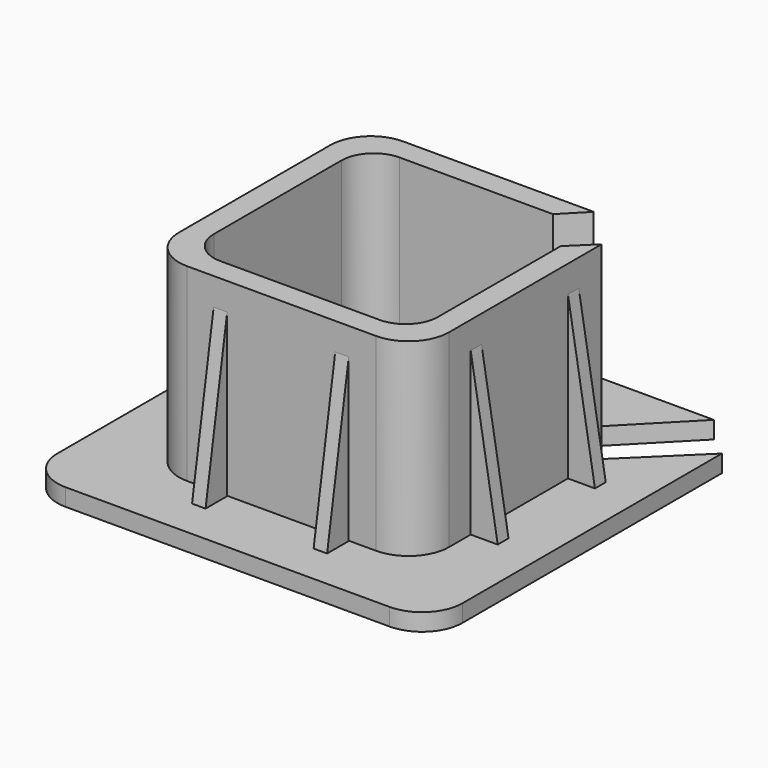
from build123d import *

# Parameters (mm, degrees)
F1_DEPTH       = 1.6256
F3_DEPTH       = 17.78
F5_DEPTH       = 17.78
F6_W           = 2.54
F6_H           = 1.27
F6_W_2         = 1.27
F6_H_2         = 2.54
F7_DEPTH       = 15.24
F9_DEPTH       = 25.401
F11_DEPTH      = 25.401
F13_DEPTH      = 1.6266
F13_DEPTH_BACK = 17.781


with BuildPart() as f1:
    # F0 (on Top) → F1 (new body)
    with BuildSketch(Plane.XY):
        with BuildLine():
            Line((-15.24, -19.05), (15.24, -19.05))
            ThreePointArc((15.24, -19.05), (17.9340768363, -17.9340768363), (19.05, -15.24))
            Line((19.05, -15.24), (19.05, 15.24))
            ThreePointArc((19.05, 15.24), (17.9340768363, 17.9340768363), (15.24, 19.05))
            Line((15.24, 19.05), (-15.24, 19.05))
            ThreePointArc((-15.24, 19.05), (-17.9340768363, 17.9340768363), (-19.05, 15.24))
            Line((-19.05, 15.24), (-19.05, -15.24))
            ThreePointArc((-19.05, -15.24), (-17.9340768363, -17.9340768363), (-15.24, -19.05))
        make_face()
    extrude(amount=F1_DEPTH)

    # F2 (on face) → F3 (join)
    with BuildSketch(Plane.XY.offset(1.6256)):
        with BuildLine():
            Line((-8.89, -12.7), (8.89, -12.7))
            ThreePointArc((8.89, -12.7), (11.5840768363, -11.5840768363), (12.7, -8.89))
            Line((12.7, -8.89), (12.7, 8.89))
            ThreePointArc((12.7, 8.89), (11.5840768363, 11.5840768363), (8.89, 12.7))
            Line((8.89, 12.7), (-8.89, 12.7))
            ThreePointArc((-8.89, 12.7), (-11.5840768363, 11.5840768363), (-12.7, 8.89))
            Line((-12.7, 8.89), (-12.7, -8.89))
            ThreePointArc((-12.7, -8.89), (-11.5840768363, -11.5840768363), (-8.89, -12.7))
        make_face()
    extrude(amount=F3_DEPTH)

    # F4 (on face) → F5 (cut, through all)
    with BuildSketch(Plane.XY.offset(19.4056)):
        with BuildLine():
            ThreePointArc((-10.541, -7.493), (-9.6482614691, -9.6482614691), (-7.493, -10.541))
            Line((-7.493, -10.541), (7.493, -10.541))
            ThreePointArc((7.493, -10.541), (9.6482614691, -9.6482614691), (10.541, -7.493))
            Line((10.541, -7.493), (10.541, 7.493))
            ThreePointArc((10.541, 7.493), (9.6482614691, 9.6482614691), (7.493, 10.541))
            Line((7.493, 10.541), (-7.493, 10.541))
            ThreePointArc((-7.493, 10.541), (-9.6482614691, 9.6482614691), (-10.541, 7.493))
            Line((-10.541, 7.493), (-10.541, -7.493))
        make_face()
    extrude(amount=-F5_DEPTH, mode=Mode.SUBTRACT)

    # F6 (on face) → F7 (join)
    with BuildSketch(Plane.XY.offset(1.6256)):
        with Locations((13.97, 5.715)):
            Rectangle(F6_W, F6_H)
        with Locations((-13.97, 5.715)):
            Rectangle(F6_W, F6_H)
        with Locations((-13.97, -5.715)):
            Rectangle(F6_W, F6_H)
        with Locations((13.97, -5.715)):
            Rectangle(F6_W, F6_H)
        with Locations((5.715, 14.0176649359)):
            Rectangle(F6_W_2, F6_H_2)
        with Locations((-5.715, 14.0176649359)):
            Rectangle(F6_W_2, F6_H_2)
        with Locations((5.715, -14.0176649359)):
            Rectangle(F6_W_2, F6_H_2)
        with Locations((-5.715, -14.0176649359)):
            Rectangle(F6_W_2, F6_H_2)
    extrude(amount=F7_DEPTH)

    # F8 (on face) → F9 (cut, through all)
    with BuildSketch(Plane.XZ.offset(6.35)):
        Polygon((15.24, 16.8656), (12.7, 16.8656), (15.24, 1.6256), align=None)
        Polygon((-15.24, 1.6256), (-12.7, 16.8656), (-15.24, 16.8656), align=None)
    extrude(amount=-F9_DEPTH, mode=Mode.SUBTRACT)

    # F10 (on face) → F11 (cut, through all)
    with BuildSketch(Plane.YZ.offset(6.35)):
        Polygon((15.2876649359, 16.8656), (12.7476649359, 16.8656), (15.2876649359, 1.6256), align=None)
        Polygon((-15.2876649359, 1.6256), (-12.7476649359, 16.8656), (-15.2876649359, 16.8656), align=None)
    extrude(amount=-F11_DEPTH, mode=Mode.SUBTRACT)

    # F12 (on face) → F13 (cut, two sides)
    with BuildSketch(Plane.XY.offset(1.6256)) as f13_sk:
        with BuildLine():
            Line((15.24, 19.05), (5.6768122097, 9.268686321))
            ThreePointArc((5.6768122097, 9.268686321), (5.6969487758, 5.6969487758), (9.268686321, 5.6768122097))
            Line((9.268686321, 5.6768122097), (19.05, 15.24))
            ThreePointArc((19.05, 15.24), (17.9340768363, 17.9340768363), (15.24, 19.05))
        make_face()
    extrude(amount=-F13_DEPTH, mode=Mode.SUBTRACT)
    extrude(f13_sk.sketch, amount=F13_DEPTH_BACK, mode=Mode.SUBTRACT)


solid = f1.part
